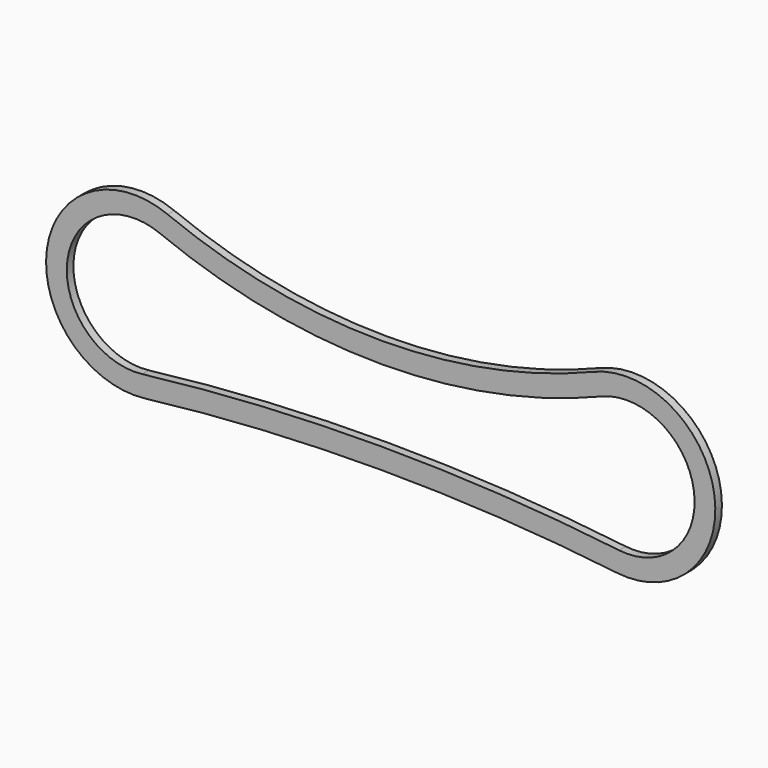
from build123d import *

# Parameters (mm, degrees)
F1_DEPTH = 20


with BuildPart() as f1:
    # F0 (on Front) → F1 (new body)
    with BuildSketch(Plane.XZ):
        with BuildLine():
            ThreePointArc((517.411662, 197.510056), (2.686303, 96.90528), (-512.039057, 197.510056))
            ThreePointArc((-512.039057, 197.510056), (-803.598844, 28.510119), (-567.259581, -211.72277))
            ThreePointArc((-567.259581, -211.72277), (2.686303, -178.117863), (572.632187, -211.72277))
            ThreePointArc((572.632187, -211.72277), (808.971449, 28.510119), (517.411662, 197.510056))
        make_face()
        with BuildLine():
            ThreePointArc((-573.135312, -162.069212), (-754.047918, 21.823881), (-530.865192, 151.189686))
            ThreePointArc((-530.865192, 151.189686), (2.686303, 46.90528), (536.237798, 151.189686))
            ThreePointArc((536.237798, 151.189686), (759.420524, 21.823881), (578.507917, -162.069212))
            ThreePointArc((578.507917, -162.069212), (2.686303, -128.117863), (-573.135312, -162.069212))
        make_face(mode=Mode.SUBTRACT)
    extrude(amount=F1_DEPTH)


solid = f1.part
